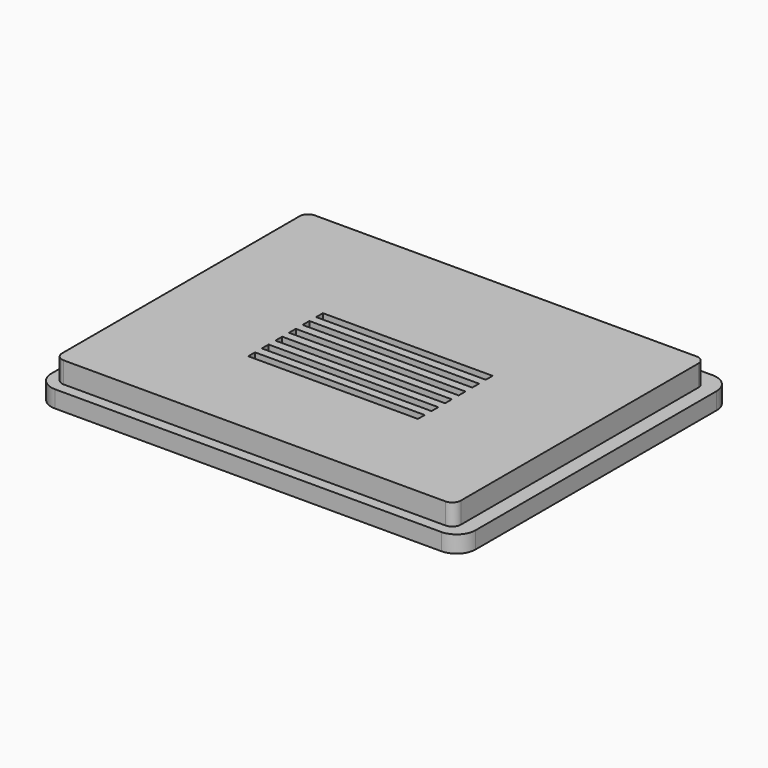
from build123d import *

# Parameters (mm, degrees)
PAD_DEPTH    = 4
PAD001_DEPTH = 5
SKETCH002_W  = 40
SKETCH002_H  = 2
POCKET_DEPTH = 20


with BuildPart() as part:
    # Sketch → Pad (new body)
    with BuildSketch(Plane.XY):
        with BuildLine():
            Line((4.5, 0), (95.5, 0))
            ThreePointArc((95.5, 0), (98.681981, 1.318019), (100, 4.5))
            Line((100, 4.5), (100, 75.5))
            ThreePointArc((100, 75.5), (98.681981, 78.681981), (95.5, 80))
            Line((95.5, 80), (4.5, 80))
            ThreePointArc((4.5, 80), (1.318019, 78.681981), (0, 75.5))
            Line((0, 75.5), (0, 4.5))
            ThreePointArc((0, 4.5), (1.318019, 1.318019), (4.5, 0))
        make_face()
    extrude(amount=PAD_DEPTH)

    # Sketch001 (on Face10 of Pad) → Pad001 (join)
    with BuildSketch(Plane.XY.offset(4)):
        with BuildLine():
            Line((2.5, 74.5), (2.5, 4.5))
            ThreePointArc((2.5, 4.5), (3.085786, 3.085786), (4.5, 2.5))
            Line((4.5, 2.5), (94.5, 2.5))
            ThreePointArc((94.5, 2.5), (95.914214, 3.085786), (96.5, 4.5))
            Line((96.5, 4.5), (96.5, 74.5))
            ThreePointArc((96.5, 74.5), (95.914214, 75.914214), (94.5, 76.5))
            Line((94.5, 76.5), (4.5, 76.5))
            ThreePointArc((4.5, 76.5), (3.085786, 75.914214), (2.5, 74.5))
        make_face()
    extrude(amount=PAD001_DEPTH)

    # Sketch002 (on Face4 of Pad001) → Pocket (cut)
    with BuildSketch(Plane(origin=(0, 0, 0), x_dir=(1, 0, 0), z_dir=(0, 0, -1))):
        with Locations((50, -46)):
            Rectangle(SKETCH002_W, SKETCH002_H)
        with Locations((50, -42)):
            Rectangle(SKETCH002_W, SKETCH002_H)
        with Locations((50, -38)):
            Rectangle(SKETCH002_W, SKETCH002_H)
        with Locations((50, -34)):
            Rectangle(SKETCH002_W, SKETCH002_H)
        with Locations((50, -30)):
            Rectangle(SKETCH002_W, SKETCH002_H)
        with Locations((50, -26)):
            Rectangle(SKETCH002_W, SKETCH002_H)
    extrude(amount=-POCKET_DEPTH, mode=Mode.SUBTRACT)


solid = part.part
